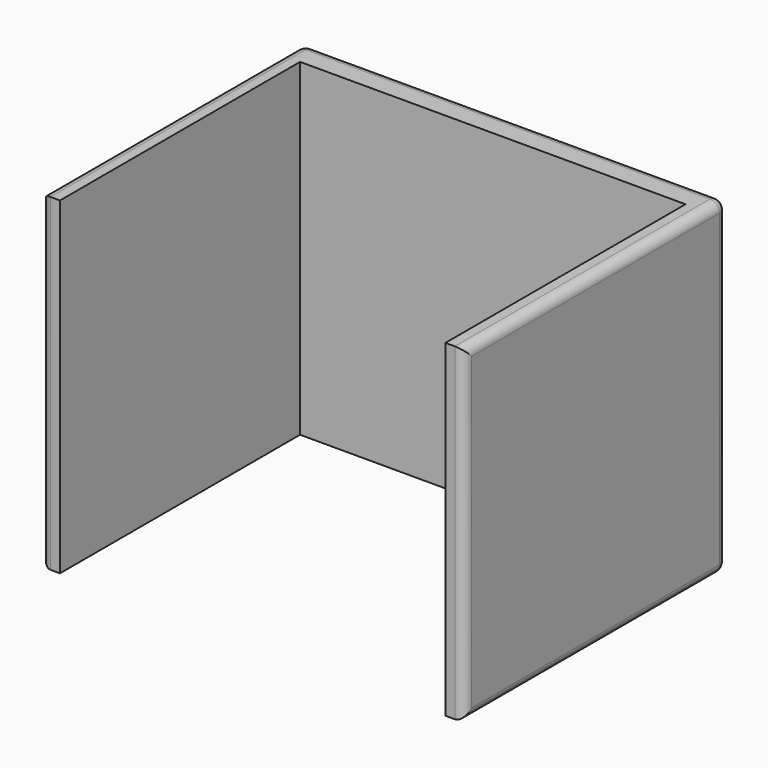
from build123d import *

# Parameters (mm, degrees)
PAD_DEPTH = 35
FILLET_R  = 1


with BuildPart() as part:
    # Sketch → Pad (new body)
    with BuildSketch(Plane.XY):
        Polygon((0, 0), (0, 35), (-45.1, 35), (-45.1, 0), (-43.1, 0), (-43.1, 32), (-2, 32), (-2, 0), align=None)
    extrude(amount=PAD_DEPTH)

    # Fillet
    fillet_edges = [part.edges().sort_by_distance(p)[0] for p in [
        (0, 0, 17.5),
        (0, 35, 17.5),
        (0, 17.5, 0),
        (0, 17.5, 35),
        (-45.1, 35, 17.5),
        (-22.55, 35, 0),
        (-22.55, 35, 35),
        (-45.1, 0, 17.5),
        (-45.1, 17.5, 0),
        (-45.1, 17.5, 35),
    ]]
    fillet(fillet_edges, radius=FILLET_R)


solid = part.part
